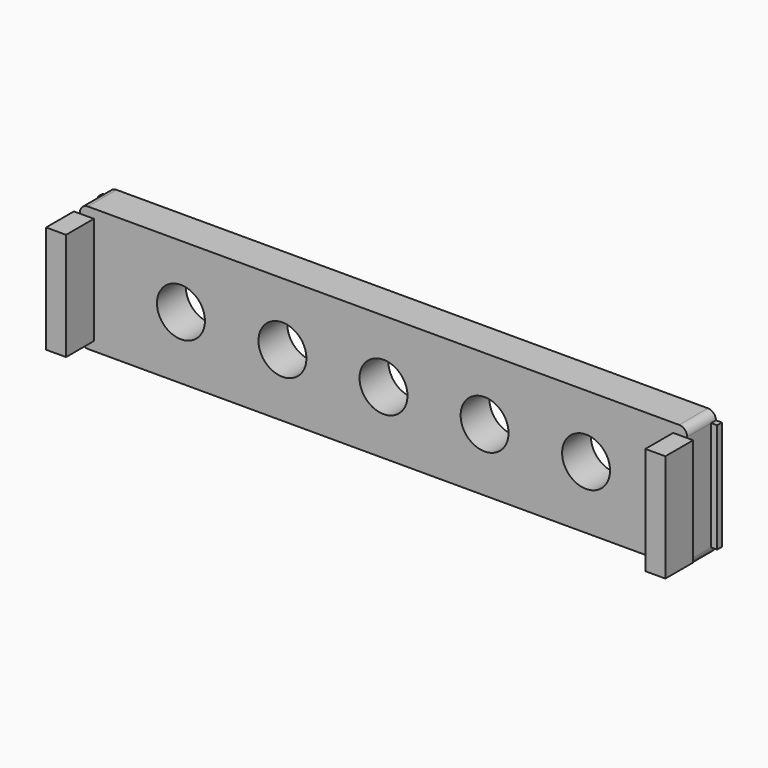
from build123d import *

# Parameters (mm, degrees)
F0_W      = 152
F0_H      = 31.4
F1_DEPTH  = 9
F2_R      = 2
F3_W      = 3
F3_H      = 26.9515514374
F4_DEPTH  = 8.7
F5_DEPTH  = 2
F6_DEPTH  = 2
F7_W      = 1.5
F7_H      = 27.4
F8_DEPTH  = 1.5
F9_W      = 1.5
F9_H      = 27.4
F10_DEPTH = 1.5
F11_D     = 12
F11_DEPTH = 10
F11_TIP   = 3.6051637142


with BuildPart() as f1:
    # F0 (on Front) → F1 (new body)
    with BuildSketch(Plane.XZ):
        Rectangle(F0_W, F0_H)
    extrude(amount=F1_DEPTH)

    # F2
    f2_edges = [f1.edges().sort_by_distance(p)[0] for p in [
        (76, -4.5, 15.7),
        (76, -4.5, -15.7),
        (-76, -4.5, -15.7),
        (-76, -4.5, 15.7),
    ]]
    fillet(f2_edges, radius=F2_R)

    # F3 (on face) → F4 (join)
    with BuildSketch(Plane.XZ.offset(9)):
        with Locations((-74, 0)):
            Rectangle(F3_W, F3_H)
        with Locations((74, -0.0208395504)):
            Rectangle(F3_W, F3_H)
    extrude(amount=F4_DEPTH)

    # F5 (add): a face of the model
    f5_faces = [f1.faces().sort_by_distance(p)[0] for p in [
        (-75.5, -13.35, 0),
    ]]
    extrude(f5_faces, amount=F5_DEPTH)

    # F6 (add): a face of the model
    f6_faces = [f1.faces().sort_by_distance(p)[0] for p in [
        (75.5, -13.35, -0.0208395504),
    ]]
    extrude(f6_faces, amount=F6_DEPTH)

    # F7 (on face) → F8 (join)
    with BuildSketch(Plane(origin=(-76, 0, 0), x_dir=(0, -1, 0), z_dir=(-1, 0, 0))):
        with Locations((0.75, 0)):
            Rectangle(F7_W, F7_H)
    extrude(amount=F8_DEPTH)

    # F9 (on face) → F10 (join)
    with BuildSketch(Plane.YZ.offset(76)):
        with Locations((-0.75, 0)):
            Rectangle(F9_W, F9_H)
    extrude(amount=F10_DEPTH)

    # F11
    with Locations(Plane(origin=(0, 0, 0), x_dir=(1, 0, 0), z_dir=(0, 1, 0))):
        with Locations((-50.7, 0), (-25.3, 0), (25.3, 0), (0, 0), (50.7, 0)):
            Hole(F11_D / 2, depth=F11_DEPTH)
            with Locations((0, 0, -(F11_DEPTH + F11_TIP / 2))):  # 118° drill point
                Cone(0, F11_D / 2, F11_TIP, mode=Mode.SUBTRACT)


solid = f1.part
